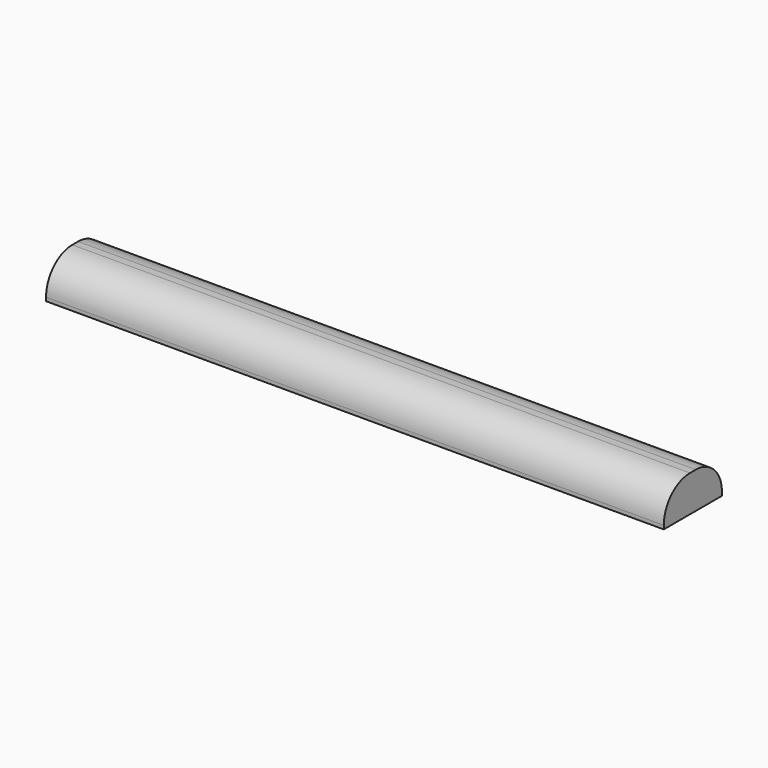
from build123d import *

# Parameters (mm, degrees)
BOX002_W     = 17
BOX002_H     = 2
BOX002_DEPTH = 1
FILLET_R     = 0.9
FILLET001_R  = 0.9


with BuildPart() as part:
    # Box002 → Box002 (new body)
    with BuildSketch(Plane(origin=(-31, -4.75, 3), x_dir=(1, 0, 0), z_dir=(0, 0, 1))):
        with Locations((8.5, 1)):
            Rectangle(BOX002_W, BOX002_H)
    extrude(amount=BOX002_DEPTH)

    # Fillet
    fillet_edges = [part.edges().sort_by_distance(p)[0] for p in [
        (-22.5, -4.75, 4),
    ]]
    fillet(fillet_edges, radius=FILLET_R)

    # Fillet001
    fillet001_edges = [part.edges().sort_by_distance(p)[0] for p in [
        (-22.5, -2.75, 4),
    ]]
    fillet(fillet001_edges, radius=FILLET001_R)


solid = part.part
